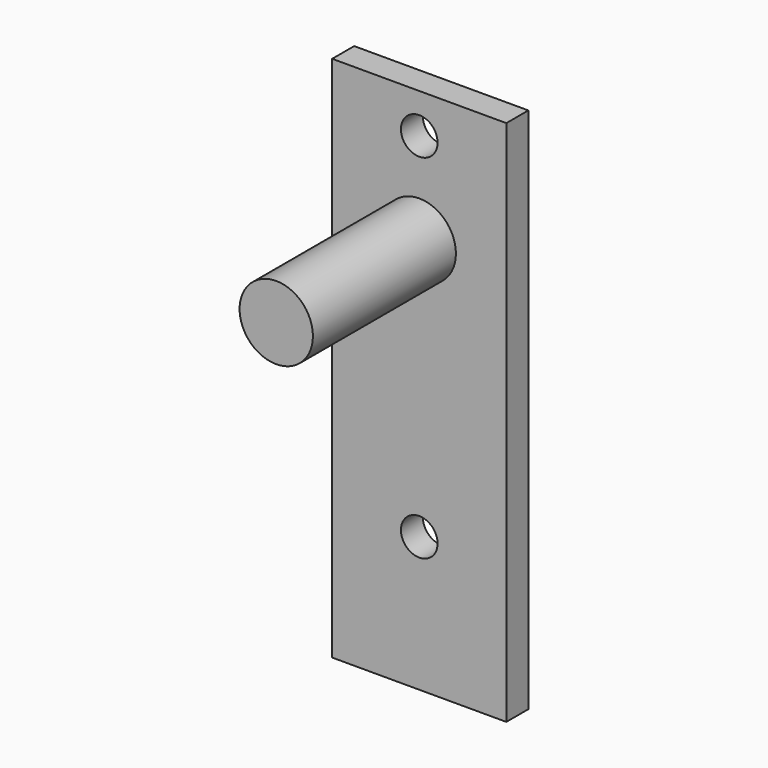
from build123d import *

# Parameters (mm, degrees)
F0_W     = 37.999924
F0_H     = 115.010692
F0_R     = 7.99973
F1_DEPTH = 6
F2_DEPTH = 45
F3_R     = 4
F4_DEPTH = 6.001


with BuildPart() as f1:
    # F0 (on Front) → F1 (new body)
    with BuildSketch(Plane.XZ):
        Rectangle(F0_W, F0_H)
        with Locations((0, 28.869588)):
            Circle(F0_R, mode=Mode.SUBTRACT)
    extrude(amount=F1_DEPTH)

    # F0 (on Front) → F2 (join)
    with BuildSketch(Plane.XZ):
        with Locations((0, 28.869588)):
            Circle(F0_R)
    extrude(amount=F2_DEPTH)

    # F3 (on face) → F4 (cut, through all)
    with BuildSketch(Plane.XZ.offset(6)):
        with Locations((0, 48.869588)):
            Circle(F3_R)
        with Locations((0, -28.130412)):
            Circle(F3_R)
    extrude(amount=-F4_DEPTH, mode=Mode.SUBTRACT)


solid = f1.part
